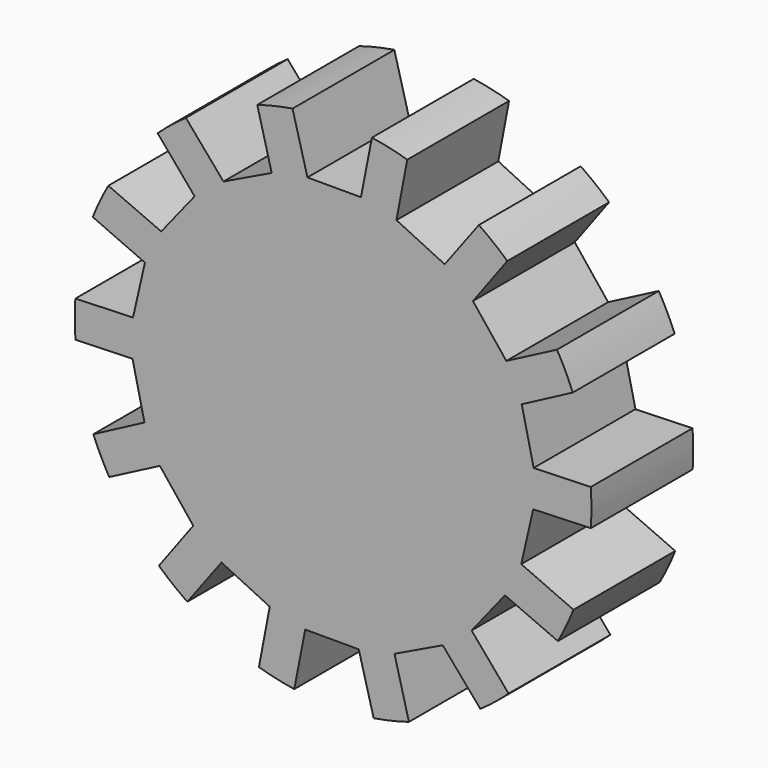
from build123d import *

# Parameters (mm, degrees)
F0_W     = 22.9585338384
F0_H     = 46.6068126261
F3_DEPTH = 25.4
F4_COUNT = 14


with BuildPart() as f1:
    # F0 (on Right) → F1 (revolve)
    with BuildSketch(Plane.YZ):
        with Locations((11.4792669192, 23.3034063131)):
            Rectangle(F0_W, F0_H)
    revolve(axis=Axis((0, 11.4792669192, 0), (0, 1, 0)))

    # F2 (on face) → F3 (cut)
    with BuildSketch(Plane(origin=(0, 22.9585338384, 0), x_dir=(-1, 0, 0), z_dir=(0, 1, 0))):
        with BuildLine():
            ThreePointArc((7.3147966582, 46.0292160808), (0.1568637228, 46.6065486487), (-7.004793259, 46.0774115437))
            Line((-7.004793259, 46.0774115437), (-5.0252592191, 35.9650850296))
            Line((-5.0252592191, 35.9650850296), (0, 35.9650850296))
            Line((0, 35.9650850296), (4.6311216429, 35.9650850296))
            Line((4.6311216429, 35.9650850296), (7.3147966582, 46.0292160808))
        make_face()
    f3 = extrude(amount=-F3_DEPTH, mode=Mode.SUBTRACT)

    # F4: F3 ×14 about axis
    f4_axis = Axis((0, 11.4792669192, 0), (0, 1, 0))
    for i in range(1, F4_COUNT):
        add(f3.rotate(f4_axis, i * 360 / F4_COUNT), mode=Mode.SUBTRACT)


solid = f1.part
